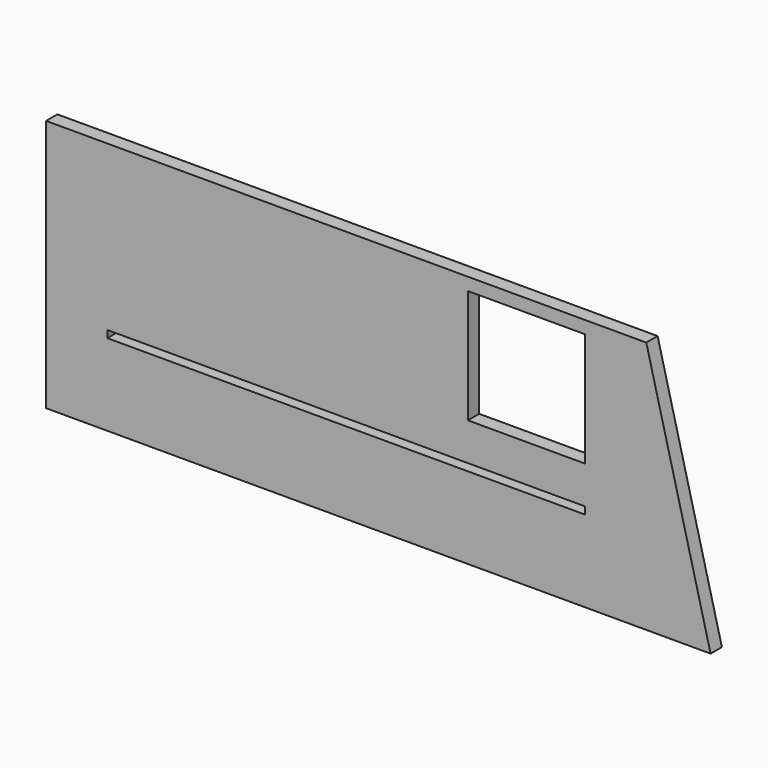
from build123d import *

# Parameters (mm, degrees)
F0_W     = 140
F0_H     = 59
F1_DEPTH = 3.3
F2_W     = 111.440674
F2_H     = 1.685995
F3_DEPTH = 25
F4_W     = 27.34
F4_H     = 19
F5_DEPTH = 25
F6_W     = 27.34
F6_H     = 26.557377
F7_DEPTH = 25
F8_R     = 1.5
F9_DEPTH = 3


with BuildPart() as f1:
    # F0 (on Front) → F1 (new body)
    with BuildSketch(Plane.XZ):
        Rectangle(F0_W, F0_H)
        Polygon((85, -29.5), (70, 29.5), (70, -29.5), align=None)
    extrude(amount=F1_DEPTH)

    # F2 (on face) → F3 (cut)
    with BuildSketch(Plane.XZ.offset(3.3)):
        with Locations((0, -9.62422)):
            Rectangle(F2_W, F2_H)
    extrude(amount=-F3_DEPTH, mode=Mode.SUBTRACT)

    # F4 (on face) → F5 (cut)
    with BuildSketch(Plane.XZ.offset(3.3)):
        with Locations((42.050337, 12.718777)):
            Rectangle(F4_W, F4_H)
    extrude(amount=-F5_DEPTH, mode=Mode.SUBTRACT)

    # F6 (on face) → F7 (cut)
    with BuildSketch(Plane.XZ.offset(3.3)):
        with Locations((42.050337, 13.278688)):
            Rectangle(F6_W, F6_H)
    extrude(amount=-F7_DEPTH, mode=Mode.SUBTRACT)

    # F8 (on face) → F9 (cut)
    with BuildSketch(Plane(origin=(0, 0, 0), x_dir=(-1, 0, 0), z_dir=(0, 1, 0))):
        with Locations((55, 14.5)):
            Circle(F8_R)
        with Locations((62, -9.5)):
            Circle(F8_R)
        with Locations((-63, -9.5)):
            Circle(F8_R)
        with Locations((-63, 14.5)):
            Circle(F8_R)
    extrude(amount=-F9_DEPTH, mode=Mode.SUBTRACT)


solid = f1.part
